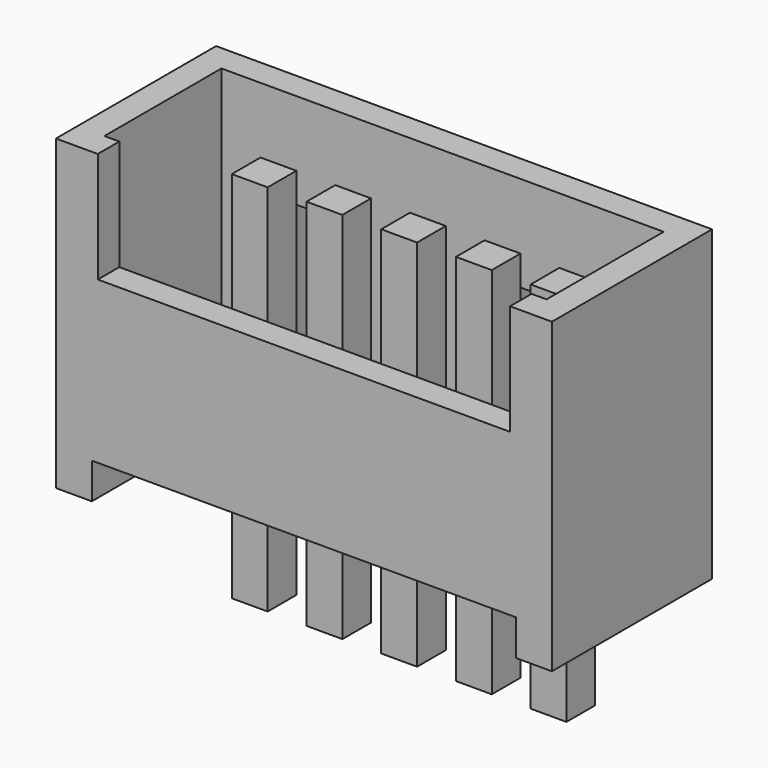
from build123d import *

# Parameters (mm, degrees)
SKETCH019_W     = 8.3
SKETCH019_H     = 3.35
PAD009_DEPTH    = 4.55
SKETCH020_W     = 0.6
SKETCH020_H     = 3.35
PAD010_DEPTH    = 0.6
SKETCH021_W     = 7.4
SKETCH021_H     = 2.45
POCKET005_DEPTH = 3.9
SKETCH022_W     = 6.9
SKETCH022_H     = 1.85
POCKET006_DEPTH = 0.45
SKETCH023_W     = 0.6
SKETCH023_H     = 0.6
PAD011_DEPTH    = 2.5
SKETCH024_W     = 0.6
SKETCH024_H     = 0.6
PAD012_DEPTH    = 3.75
SKETCH025_W     = 1.25
SKETCH025_H     = 2.95
POCKET007_DEPTH = 0.45


with BuildPart() as part:
    # Sketch019 → Pad009 (new body)
    with BuildSketch(Plane.XY):
        with Locations((4.15, 1.675)):
            Rectangle(SKETCH019_W, SKETCH019_H)
    extrude(amount=PAD009_DEPTH)

    # Sketch020 (on Face5 of Pad009) → Pad010 (join)
    with BuildSketch(Plane(origin=(0, 0, 0), x_dir=(1, 0, 0), z_dir=(0, 0, -1))):
        with Locations((0.3, -1.675)):
            Rectangle(SKETCH020_W, SKETCH020_H)
        with Locations((8, -1.675)):
            Rectangle(SKETCH020_W, SKETCH020_H)
    extrude(amount=PAD010_DEPTH)

    # Sketch021 (on Face7 of Pad010) → Pocket005 (cut)
    with BuildSketch(Plane.XY.offset(4.55)):
        with Locations((4.15, 1.675)):
            Rectangle(SKETCH021_W, SKETCH021_H)
    extrude(amount=-POCKET005_DEPTH, mode=Mode.SUBTRACT)

    # Sketch022 (on Face1 of Pocket005) → Pocket006 (cut)
    with BuildSketch(Plane.XZ):
        with Locations((4.15, 3.625)):
            Rectangle(SKETCH022_W, SKETCH022_H)
    extrude(amount=-POCKET006_DEPTH, mode=Mode.SUBTRACT)

    # Sketch023 (on Face3 of Pocket006) → Pad011 (join)
    with BuildSketch(Plane(origin=(0, 0, 0), x_dir=(1, 0, 0), z_dir=(0, 0, -1))):
        with Locations((1.76363, -2.15)):
            Rectangle(SKETCH023_W, SKETCH023_H)
        with Locations((3.01363, -2.15)):
            Rectangle(SKETCH023_W, SKETCH023_H)
        with Locations((4.26363, -2.15)):
            Rectangle(SKETCH023_W, SKETCH023_H)
        with Locations((5.51363, -2.15)):
            Rectangle(SKETCH023_W, SKETCH023_H)
        with Locations((6.76363, -2.15)):
            Rectangle(SKETCH023_W, SKETCH023_H)
    extrude(amount=PAD011_DEPTH)

    # Sketch024 (on Face3 of Pad011) → Pad012 (join)
    with BuildSketch(Plane(origin=(0, 0, 0), x_dir=(1, 0, 0), z_dir=(0, 0, -1))):
        with Locations((1.76363, -2.15)):
            Rectangle(SKETCH024_W, SKETCH024_H)
        with Locations((3.01363, -2.15)):
            Rectangle(SKETCH024_W, SKETCH024_H)
        with Locations((4.26363, -2.15)):
            Rectangle(SKETCH024_W, SKETCH024_H)
        with Locations((5.51363, -2.15)):
            Rectangle(SKETCH024_W, SKETCH024_H)
        with Locations((6.76363, -2.15)):
            Rectangle(SKETCH024_W, SKETCH024_H)
    extrude(amount=-PAD012_DEPTH)

    # Sketch025 (on Face14 of Pad012) → Pocket007 (cut)
    with BuildSketch(Plane(origin=(0, 3.35, 0), x_dir=(-1, 0, 0), z_dir=(0, 1, 0))):
        with Locations((-6.045, 1.475)):
            Rectangle(SKETCH025_W, SKETCH025_H)
        with Locations((-2.255, 1.475)):
            Rectangle(SKETCH025_W, SKETCH025_H)
    extrude(amount=-POCKET007_DEPTH, mode=Mode.SUBTRACT)


with BuildPart() as part_1:
    # Body002 placement: moved
    add(part.part.moved(Location((-3, -62, 126))))


solid = part_1.part
